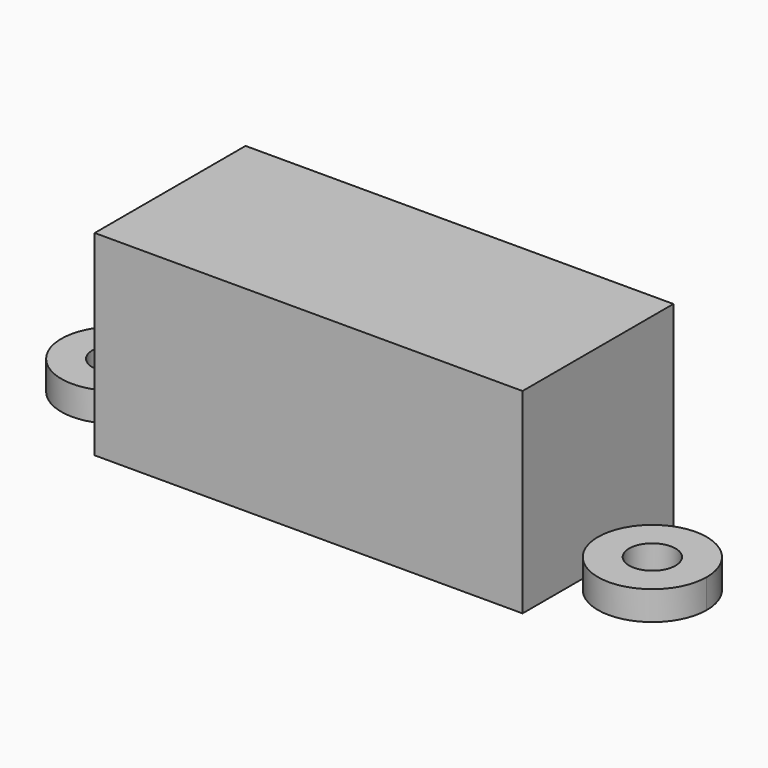
from build123d import *

# Parameters (mm, degrees)
F0_W     = 29.5
F0_H     = 13
F2_DEPTH = 13.5
F1_R     = 3.75
F1_R_2   = 1.6
F3_DEPTH = 2


with BuildPart() as f2:
    # F0 (on Top) → F2 (new body)
    with BuildSketch(Plane.XY):
        Rectangle(F0_W, F0_H)
    extrude(amount=F2_DEPTH)

    # F1 (on Top) → F3 (join)
    with BuildSketch(Plane.XY):
        with Locations((-18.5, 0)):
            Circle(F1_R)
        with Locations((-18.5, 0)):
            Circle(F1_R_2, mode=Mode.SUBTRACT)
        with Locations((18.5, 0)):
            Circle(F1_R)
        with Locations((18.5, 0)):
            Circle(F1_R_2, mode=Mode.SUBTRACT)
    extrude(amount=F3_DEPTH)


solid = f2.part
